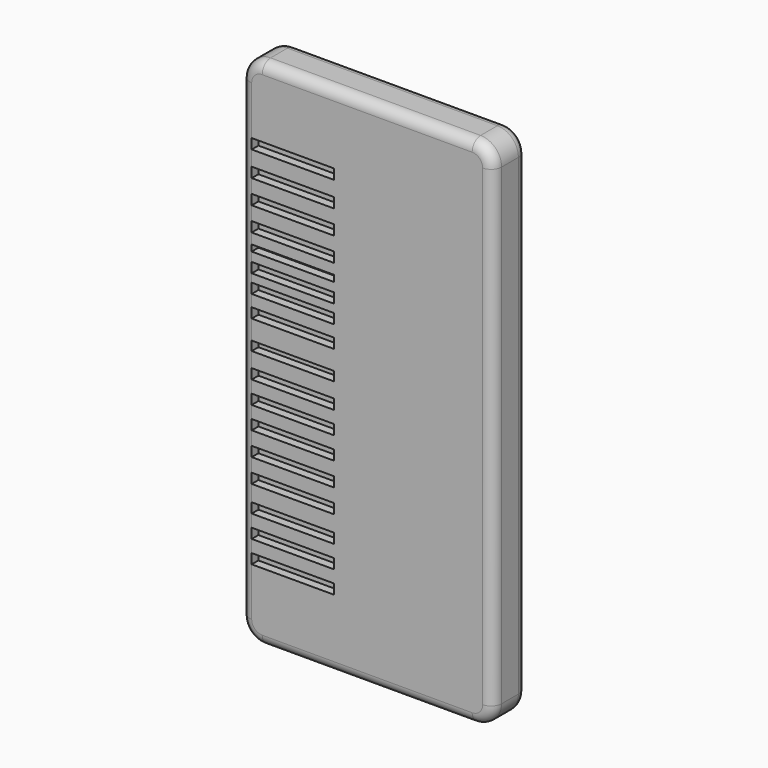
from build123d import *

# Parameters (mm, degrees)
F0_W     = 60.96
F0_H     = 124.46
F1_DEPTH = 5.08
F2_R     = 5.08
F3_R     = 5.08
F4_R     = 5.08
F5_R     = 5.08
F6_R     = 2.54
F7_R     = 2.54
F8_W     = 19.903125
F8_H     = 2.43899
F8_H_2   = 2.438989
F8_H_3   = 1.521701
F8_H_4   = 2.418725
F8_H_5   = 2.409754
F8_H_6   = 2.409753
F8_H_7   = 2.234453
F8_H_8   = 2.434235
F8_H_9   = 2.404023
F8_H_10  = 2.404026
F8_H_11  = 2.404027
F8_H_12  = 2.404019
F9_DEPTH = 2.032


with BuildPart() as f1:
    # F0 (on Front) → F1 (new body, symmetric)
    with BuildSketch(Plane.XZ):
        with Locations((-13.942291, -18.97625)):
            Rectangle(F0_W, F0_H)
    extrude(amount=F1_DEPTH, both=True)

    # F2
    f2_edges = [f1.edges().sort_by_distance(p)[0] for p in [
        (16.537709, 0, 43.25375),
    ]]
    fillet(f2_edges, radius=F2_R)

    # F3
    f3_edges = [f1.edges().sort_by_distance(p)[0] for p in [
        (-44.422291, 0, 43.25375),
    ]]
    fillet(f3_edges, radius=F3_R)

    # F4
    f4_edges = [f1.edges().sort_by_distance(p)[0] for p in [
        (16.537709, 0, -81.20625),
    ]]
    fillet(f4_edges, radius=F4_R)

    # F5
    f5_edges = [f1.edges().sort_by_distance(p)[0] for p in [
        (-44.422291, 0, -81.20625),
    ]]
    fillet(f5_edges, radius=F5_R)

    # F6
    f6_edges = [f1.edges().sort_by_distance(p)[0] for p in [
        (16.537709, -5.08, -18.97625),
    ]]
    fillet(f6_edges, radius=F6_R)

    # F7
    f7_edges = [f1.edges().sort_by_distance(p)[0] for p in [
        (16.537709, 5.08, -18.97625),
    ]]
    fillet(f7_edges, radius=F7_R)

    # F8 (on face) → F9 (cut)
    with BuildSketch(Plane.XZ.offset(5.08)):
        with Locations((-31.930728, 25.17156)):
            Rectangle(F8_W, F8_H)
        with Locations((-31.930728, 19.074085)):
            Rectangle(F8_W, F8_H)
        with Locations((-31.930728, 13.281484)):
            Rectangle(F8_W, F8_H_2)
        with Locations((-31.930728, 7.488883)):
            Rectangle(F8_W, F8_H)
        with Locations((-31.930728, 2.969836)):
            Rectangle(F8_W, F8_H_3)
        with Locations((-31.930728, -1.209362)):
            Rectangle(F8_W, F8_H_4)
        with Locations((-31.930728, -5.608104)):
            Rectangle(F8_W, F8_H_5)
        with Locations((-31.930728, -10.852863)):
            Rectangle(F8_W, F8_H_6)
        with Locations((-31.930728, -17.859023)):
            Rectangle(F8_W, F8_H_7)
        with Locations((-31.930728, -23.828854)):
            Rectangle(F8_W, F8_H_8)
        with Locations((-31.930728, -29.247876)):
            Rectangle(F8_W, F8_H_9)
        with Locations((-31.930728, -34.656925)):
            Rectangle(F8_W, F8_H_9)
        with Locations((-31.930728, -40.36648)):
            Rectangle(F8_W, F8_H_9)
        with Locations((-31.930728, -46.076036)):
            Rectangle(F8_W, F8_H_9)
        with Locations((-31.930728, -52.386593)):
            Rectangle(F8_W, F8_H_10)
        with Locations((-31.930728, -57.795643)):
            Rectangle(F8_W, F8_H_11)
        with Locations((-31.930728, -63.204698)):
            Rectangle(F8_W, F8_H_12)
    extrude(amount=-F9_DEPTH, mode=Mode.SUBTRACT)


solid = f1.part
